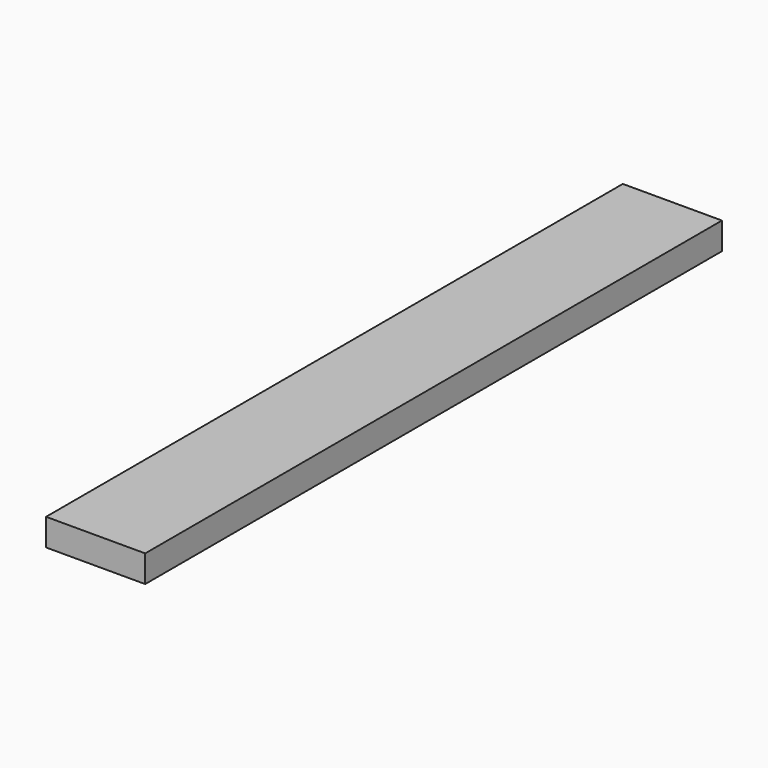
from build123d import *

# Parameters (mm, degrees)
F0_W     = 139.7
F0_H     = 38.1
F1_DEPTH = 1016


with BuildPart() as f1:
    # F0 (on Front) → F1 (new body)
    with BuildSketch(Plane.XZ):
        with Locations((69.85, 19.05)):
            Rectangle(F0_W, F0_H)
        with Locations((69.85, 19.05)):
            Rectangle(F0_W, F0_H)
    extrude(amount=-F1_DEPTH)


solid = f1.part
